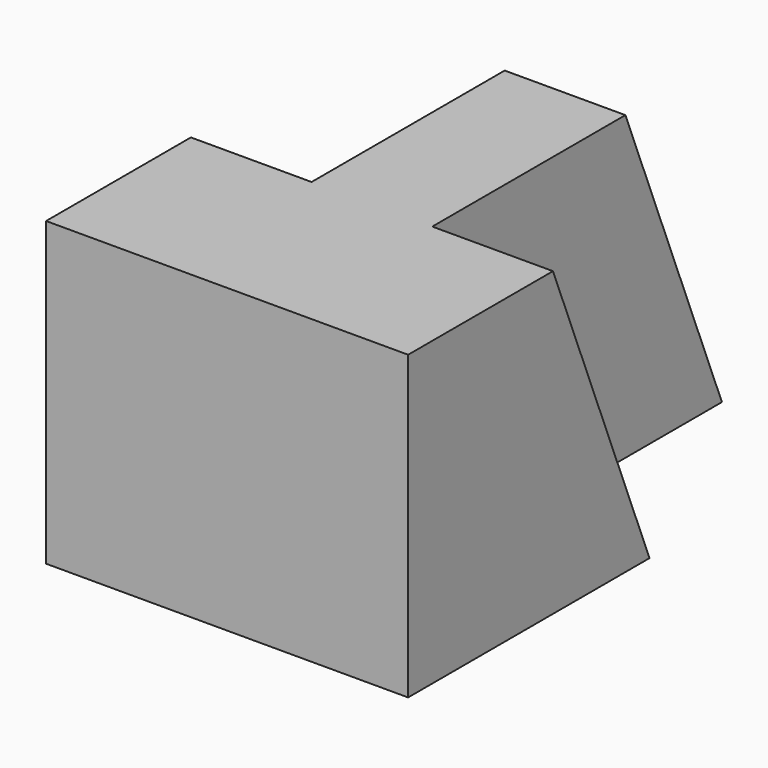
from build123d import *

# Parameters (mm, degrees)
F2_DEPTH = 31.75
F4_DEPTH = 12.7
F6_DEPTH = 12.7
F8_DEPTH = 12.7


with BuildPart() as f2:
    # F0 (on Top) → F2 (new body)
    with BuildSketch(Plane.XY):
        Polygon((-16.454482, 7.490737), (-16.454482, -24.259263), (21.645518, -24.259263), (21.645518, 7.490737), (8.945518, 7.490737), (8.945518, 32.890737), (-3.754482, 32.890737), (-3.754482, 7.490737), align=None)
    extrude(amount=F2_DEPTH)

    # F3 (on face) → F4 (cut)
    with BuildSketch(Plane(origin=(-3.754482, 0, 0), x_dir=(0, -1, 0), z_dir=(-1, 0, 0))):
        Polygon((-20.190737, 31.75), (-32.890737, 31.75), (-32.890737, 0), align=None)
    extrude(amount=-F4_DEPTH, mode=Mode.SUBTRACT)

    # F5 (on face) → F6 (cut)
    with BuildSketch(Plane(origin=(-16.454482, 0, 0), x_dir=(0, -1, 0), z_dir=(-1, 0, 0))):
        Polygon((-7.490737, 31.75), (-7.490737, 0), (5.209263, 31.75), align=None)
    extrude(amount=-F6_DEPTH, mode=Mode.SUBTRACT)

    # F7 (on face) → F8 (cut)
    with BuildSketch(Plane.YZ.offset(21.645518)):
        Polygon((7.490737, 0), (7.490737, 31.75), (-5.209263, 31.75), align=None)
    extrude(amount=-F8_DEPTH, mode=Mode.SUBTRACT)


solid = f2.part
